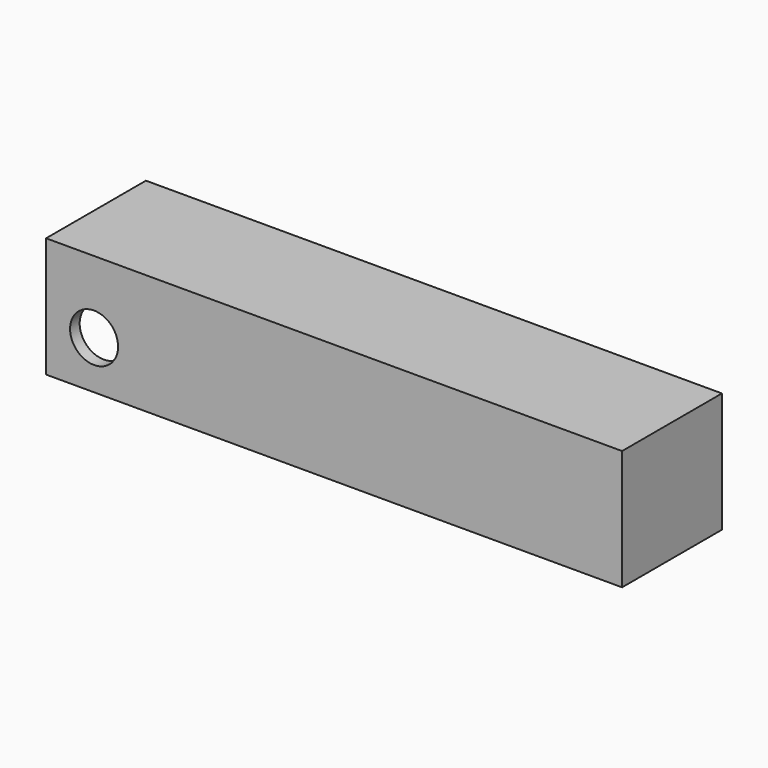
from build123d import *

# Parameters (mm, degrees)
F0_W     = 152.4
F0_H     = 31.75
F0_R     = 6.35
F1_DEPTH = 33.02
F2_W     = 146.05
F2_H     = 26.67
F3_DEPTH = 27.94


with BuildPart() as f1:
    # F0 (on Front) → F1 (new body)
    with BuildSketch(Plane.XZ):
        Rectangle(F0_W, F0_H)
        with Locations((-63.5, -3.175)):
            Circle(F0_R, mode=Mode.SUBTRACT)
    extrude(amount=F1_DEPTH)

    # F2 (on face) → F3 (cut)
    with BuildSketch(Plane(origin=(0, 0, -15.875), x_dir=(1, 0, 0), z_dir=(0, 0, -1))):
        with Locations((-3.175, 16.51)):
            Rectangle(F2_W, F2_H)
    extrude(amount=-F3_DEPTH, mode=Mode.SUBTRACT)


solid = f1.part
